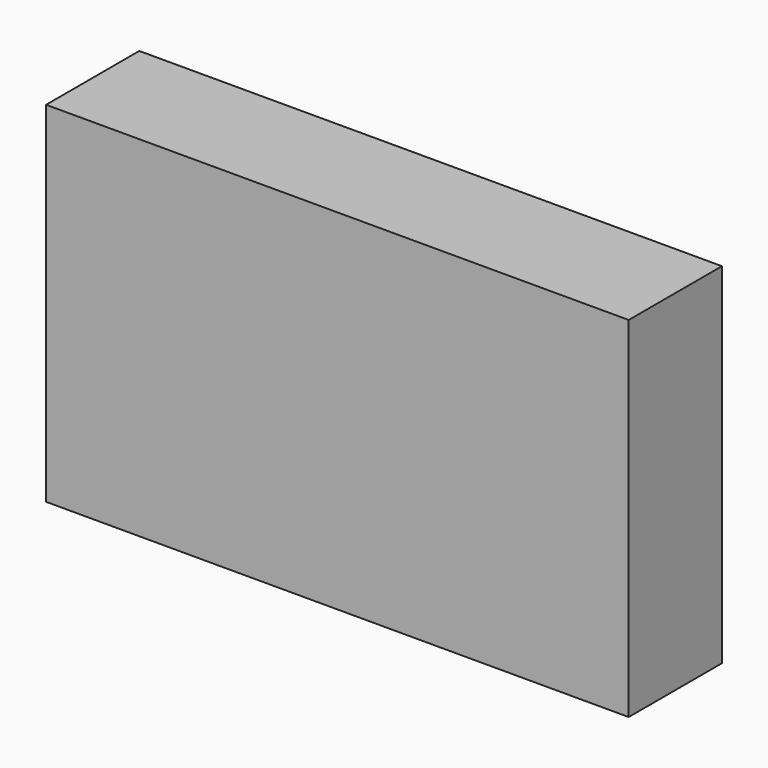
from build123d import *

# Parameters (mm, degrees)
F0_W     = 127
F0_H     = 76.2
F1_DEPTH = 25.4
F2_W     = 123.0376
F2_H     = 72.2376
F3_DEPTH = 24.4094
F4_W     = 1.9812
F4_H     = 72.2376
F5_DEPTH = 24.4094
F6_W     = 21.4376
F6_H     = 72.2376
F7_DEPTH = 1.9812


with BuildPart() as f1:
    # F0 (on Front) → F1 (new body)
    with BuildSketch(Plane.XZ):
        Rectangle(F0_W, F0_H)
    extrude(amount=F1_DEPTH)

    # F2 (on Front) → F3 (cut)
    with BuildSketch(Plane.XZ):
        Rectangle(F2_W, F2_H)
    extrude(amount=F3_DEPTH, mode=Mode.SUBTRACT)

    # F4 (on face) → F5 (join)
    with BuildSketch(Plane(origin=(0, -24.4094, 0), x_dir=(-1, 0, 0), z_dir=(0, 1, 0))):
        with Locations((-43.5102, 0)):
            Rectangle(F4_W, F4_H)
    extrude(amount=F5_DEPTH)

    # F6 (on face) → F7 (cut)
    with BuildSketch(Plane(origin=(-63.5, 0, 0), x_dir=(0, -1, 0), z_dir=(-1, 0, 0))):
        with Locations((12.7, 0)):
            Rectangle(F6_W, F6_H)
    extrude(amount=-F7_DEPTH, mode=Mode.SUBTRACT)


solid = f1.part
